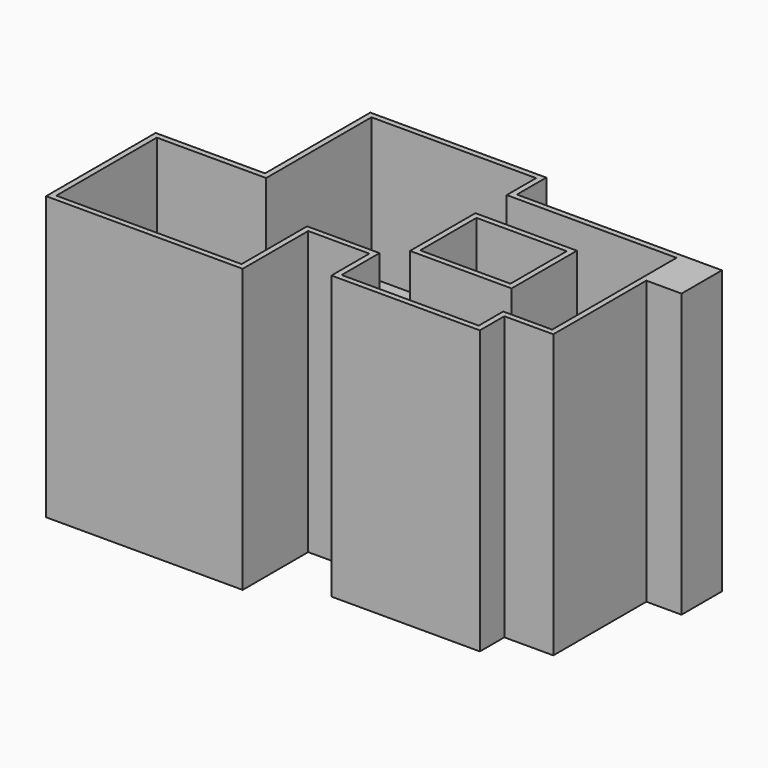
from build123d import *

# Parameters (mm, degrees)
F0_W     = 5.1417462528
F0_H     = 8.9304111898
F0_W_2   = 14.0721648932
F0_H_2   = 4.6005137265
F0_W_3   = 4.8711337149
F0_H_3   = 5.1417518407
F0_W_4   = 5.4123774171
F0_H_4   = 8.1185558811
F0_W_5   = 15.4252611101
F0_H_5   = 9.7422692925
F1_DEPTH = 50
F2_W     = 17.9664973617
F2_H     = 14.4484561384
F3_DEPTH = 25


with BuildPart() as f1:
    # F0 (on Top) → F1 (new body)
    with BuildSketch(Plane.XY):
        Polygon((0, 24.2203623056), (0, 0), (34.7744897008, 0), (34.7744897008, 14.4780930132), (19.3492285907, 14.4780930132), (19.3492285907, 24.2203623056), align=None)
        Polygon((34.7744897008, 24.2203623056), (34.7744897008, 14.4780930132), (45.5992259085, 14.4780930132), (45.5992259085, 19.6198448539), (50.4703596234, 19.6198448539), (50.4703596234, 32.0683009923), (45.3286133707, 32.0683009923), (45.3286133707, 40.998712182), (50.4703596234, 40.998712182), (50.4703596234, 47.493558377), (19.3492285907, 47.493558377), (19.3492285907, 24.2203623056), align=None)
        Polygon((50.4703596234, 14.4780930132), (45.5992259085, 14.4780930132), (45.5992259085, 6.0889176093), (71.8492344022, 6.0889176093), (71.8492344022, 11.5012889728), (66.4368569851, 11.5012889728), (66.4368569851, 19.6198448539), (50.4703596234, 19.6198448539), align=None)
        Polygon((66.4368569851, 32.0683009923), (66.4368569851, 19.6198448539), (71.8492344022, 19.6198448539), (71.8492344022, 11.5012889728), (80.5090218782, 11.5012889728), (80.5090218782, 32.0683009923), align=None)
        Polygon((86.7332518101, 40.998712182), (50.4703596234, 40.998712182), (50.4703596234, 32.0683009923), (66.4368569851, 32.0683009923), (66.4368569851, 36.6688147187), (80.5090218782, 36.6688147187), (80.5090218782, 32.0683009923), (86.7332518101, 32.0683009923), align=None)
        with Locations((47.899486497, 36.5335065871)):
            Rectangle(F0_W, F0_H)
        with Locations((73.4729394317, 34.3685578555)):
            Rectangle(F0_W_2, F0_H_2)
        with Locations((48.034792766, 17.0489689335)):
            Rectangle(F0_W_3, F0_H_3)
        with Locations((69.1430456936, 15.5605669133)):
            Rectangle(F0_W_4, F0_H_4)
        with Locations((27.0618591458, 19.3492276594)):
            Rectangle(F0_W_5, F0_H_5)
    extrude(amount=F1_DEPTH)

    # F2 (on face) → F3 (cut)
    with BuildSketch(Plane.XY.offset(50)):
        Polygon((1, 23.2203623056), (1, 1), (33.7744897008, 1), (33.7744897008, 15.4780930132), (46.5992259085, 15.4780930132), (46.5992259085, 7.0889176093), (70.8492344022, 7.0889176093), (70.8492344022, 12.5012889728), (79.5090218782, 12.5012889728), (79.5090218782, 39.998712182), (49.4703596234, 39.998712182), (49.4703596234, 46.493558377), (20.3492285907, 46.493558377), (20.3492285907, 23.2203623056), align=None)
        with Locations((58.4536083043, 25.8440729231)):
            Rectangle(F2_W, F2_H, mode=Mode.SUBTRACT)
    extrude(amount=-F3_DEPTH, mode=Mode.SUBTRACT)


solid = f1.part
